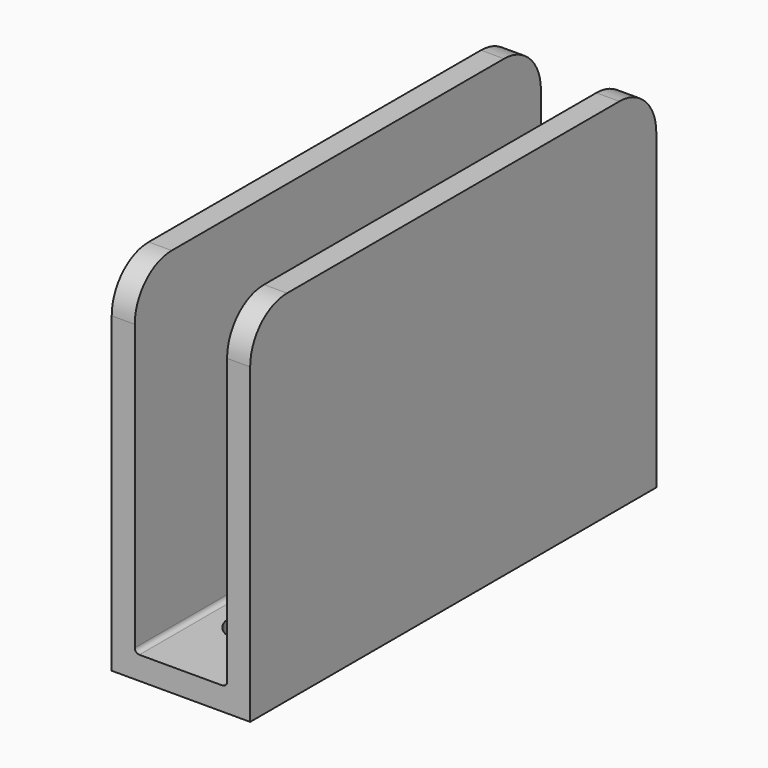
from build123d import *

# Parameters (mm, degrees)
F1_DEPTH = 27.5
F2_R     = 5
F3_R     = 0.5
F5_D     = 5.5


with BuildPart() as f1:
    # F0 (on Front) → F1 (new body, symmetric)
    with BuildSketch(Plane.XZ):
        Polygon((-7.5, 0), (0, 0), (7.5, 0), (7.5, 38.8618100292), (5, 38.8618100292), (5, 2.5), (-5, 2.5), (-5, 38.8618100292), (-7.5, 38.8618100292), align=None)
    extrude(amount=F1_DEPTH, both=True)

    # F2
    f2_edges = [f1.edges().sort_by_distance(p)[0] for p in [
        (6.25, -27.5, 38.86181),
        (-6.25, -27.5, 38.86181),
        (6.25, 27.5, 38.86181),
        (-6.25, 27.5, 38.86181),
    ]]
    fillet(f2_edges, radius=F2_R)

    # F3
    f3_edges = [f1.edges().sort_by_distance(p)[0] for p in [
        (-5, 0, 2.5),
        (5, 0, 2.5),
    ]]
    fillet(f3_edges, radius=F3_R)

    # F5 (through all)
    with Locations(Plane.XY.offset(2.5)):
        with Locations((0, 17.5), (0, -17.5)):
            Hole(F5_D / 2)


solid = f1.part
